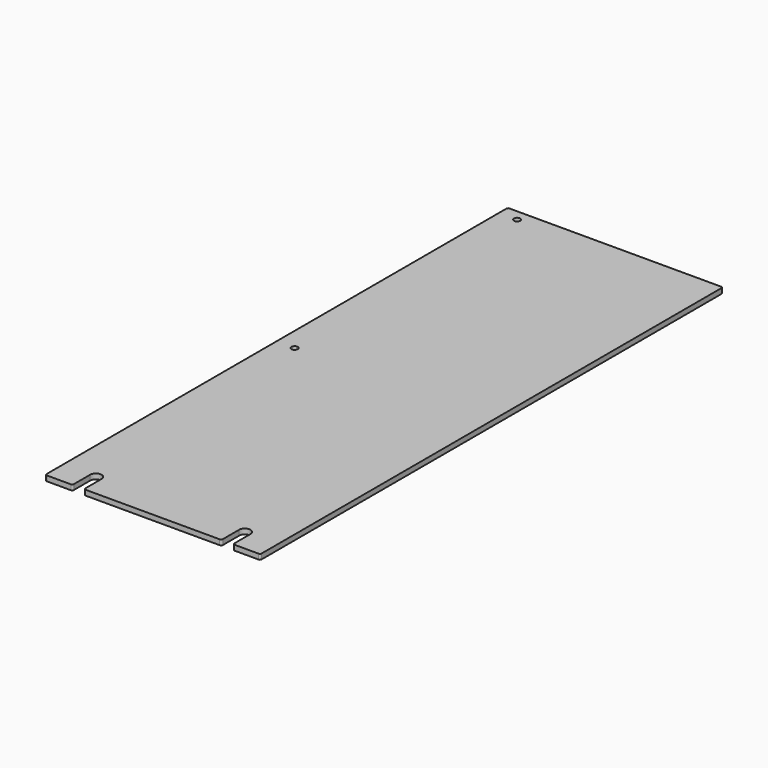
from build123d import *

# Parameters (mm, degrees)
SKETCH_R  = 1.8288
PAD_DEPTH = 3


with BuildPart() as part:
    # Sketch → Pad (new body)
    with BuildSketch(Plane.XY):
        with BuildLine():
            ThreePointArc((-61, 166.6875), (-61.707107, 166.394607), (-62, 165.6875))
            Line((-62, -165.6875), (-62, 165.6875))
            ThreePointArc((-62, -165.6875), (-61.707107, -166.394607), (-61, -166.6875))
            Line((-61, -166.6875), (-47.252, -166.6875))
            ThreePointArc((-47.252, -166.6875), (-46.544893, -166.394607), (-46.252, -165.6875))
            Line((-46.252, -153.9875), (-46.252, -165.6875))
            ThreePointArc((-39.648, -153.9875), (-42.95, -150.6855), (-46.252, -153.9875))
            Line((-39.648, -153.9875), (-39.648, -165.6875))
            ThreePointArc((-39.648, -165.6875), (-39.355107, -166.394607), (-38.648, -166.6875))
            Line((-38.648, -166.6875), (38.648, -166.6875))
            ThreePointArc((38.648, -166.6875), (39.355107, -166.394607), (39.648, -165.6875))
            Line((39.648, -153.9875), (39.648, -165.6875))
            ThreePointArc((46.252, -153.9875), (42.95, -150.6855), (39.648, -153.9875))
            Line((46.252, -153.9875), (46.252, -165.6875))
            ThreePointArc((46.252, -165.6875), (46.544893, -166.394607), (47.252, -166.6875))
            Line((47.252, -166.6875), (61, -166.6875))
            ThreePointArc((61, -166.6875), (61.707107, -166.394607), (62, -165.6875))
            Line((62, 165.6875), (62, -165.6875))
            ThreePointArc((62, 165.6875), (61.707107, 166.394607), (61, 166.6875))
            Line((-61, 166.6875), (61, 166.6875))
        make_face()
        with Locations((-51.5352, 160.3375)):
            Circle(SKETCH_R, mode=Mode.SUBTRACT)
        with Locations((-51.5352, 0)):
            Circle(SKETCH_R, mode=Mode.SUBTRACT)
    extrude(amount=PAD_DEPTH)


solid = part.part
